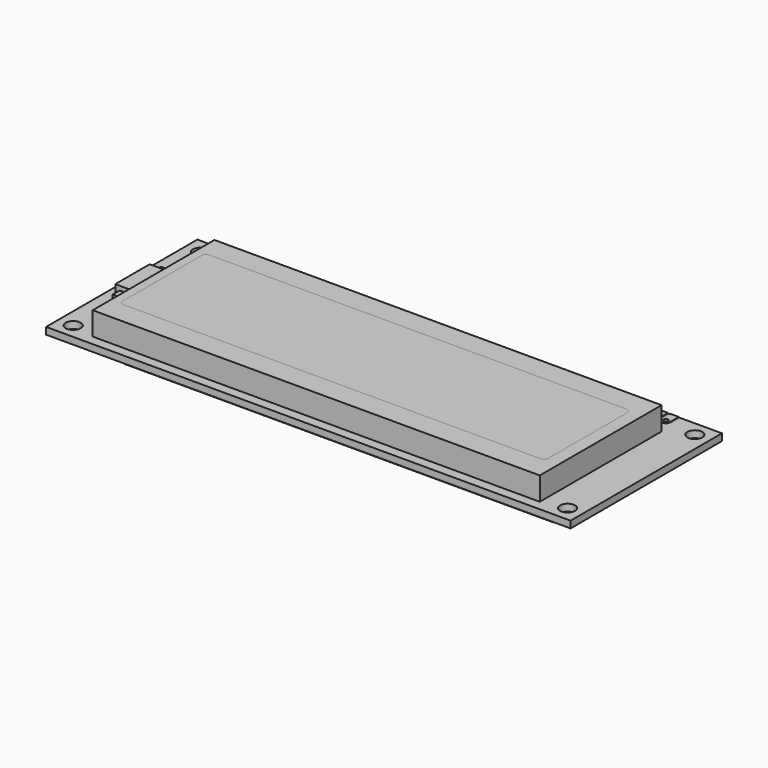
from build123d import *

# Parameters (mm, degrees)
SKETCH_W          = 122
SKETCH_H          = 44
SKETCH_R          = 1.75
SKETCH_R_2        = 0.5
PAD_DEPTH         = 1.6
BOX001_W          = 99
BOX001_H          = 25
BOX001_DEPTH      = 2
FILLET_R          = 1
FILLET001_R       = 1
FILLET002_R       = 1
FILLET003_R       = 1
BOX_W             = 104
BOX_H             = 35.4
BOX_DEPTH         = 5.4
BOX003_W          = 99
BOX003_H          = 25
BOX003_DEPTH      = 2
FILLET004_R       = 1
FILLET005_R       = 1
FILLET006_R       = 1
FILLET007_R       = 1
BOX006_W          = 2
BOX006_H          = 2
BOX006_DEPTH      = 2
BOX005_W          = 2
BOX005_H          = 2
BOX005_DEPTH      = 2
BOX004_W          = 7.1
BOX004_H          = 10
BOX004_DEPTH      = 3
CYLINDER002_R     = 0.5
CYLINDER002_DEPTH = 0.1
BOX007_W          = 2
BOX007_H          = 2.5
BOX007_DEPTH      = 0.1
CYLINDER001_R     = 0.5
CYLINDER001_DEPTH = 0.1
CYLINDER_R        = 1
CYLINDER_DEPTH    = 0.1
CYLINDER005_R     = 0.5
CYLINDER005_DEPTH = 0.1
BOX008_W          = 2
BOX008_H          = 2.5
BOX008_DEPTH      = 0.1
CYLINDER004_R     = 0.5
CYLINDER004_DEPTH = 0.1
CYLINDER003_R     = 1
CYLINDER003_DEPTH = 0.1
CYLINDER008_R     = 0.5
CYLINDER008_DEPTH = 0.1
BOX009_W          = 2
BOX009_H          = 2.5
BOX009_DEPTH      = 0.1
CYLINDER007_R     = 0.5
CYLINDER007_DEPTH = 0.1
CYLINDER006_R     = 1
CYLINDER006_DEPTH = 0.1
CYLINDER011_R     = 0.5
CYLINDER011_DEPTH = 0.1
BOX010_W          = 2
BOX010_H          = 2.5
BOX010_DEPTH      = 0.1
CYLINDER010_R     = 0.5
CYLINDER010_DEPTH = 0.1
CYLINDER009_R     = 1
CYLINDER009_DEPTH = 0.1
CYLINDER014_R     = 0.5
CYLINDER014_DEPTH = 0.1
BOX011_W          = 2
BOX011_H          = 2.5
BOX011_DEPTH      = 0.1
CYLINDER013_R     = 0.5
CYLINDER013_DEPTH = 0.1
CYLINDER012_R     = 1
CYLINDER012_DEPTH = 0.1
CYLINDER017_R     = 0.5
CYLINDER017_DEPTH = 0.1
BOX012_W          = 2
BOX012_H          = 2.5
BOX012_DEPTH      = 0.1
CYLINDER016_R     = 0.5
CYLINDER016_DEPTH = 0.1
CYLINDER015_R     = 1
CYLINDER015_DEPTH = 0.1
CYLINDER020_R     = 0.5
CYLINDER020_DEPTH = 0.1
BOX013_W          = 2
BOX013_H          = 2.5
BOX013_DEPTH      = 0.1
CYLINDER019_R     = 0.5
CYLINDER019_DEPTH = 0.1
CYLINDER018_R     = 1
CYLINDER018_DEPTH = 0.1
CYLINDER023_R     = 0.5
CYLINDER023_DEPTH = 0.1
BOX014_W          = 2
BOX014_H          = 2.5
BOX014_DEPTH      = 0.1
CYLINDER022_R     = 0.5
CYLINDER022_DEPTH = 0.1
CYLINDER021_R     = 1
CYLINDER021_DEPTH = 0.1
CYLINDER026_R     = 0.5
CYLINDER026_DEPTH = 0.1
BOX015_W          = 2
BOX015_H          = 2.5
BOX015_DEPTH      = 0.1
CYLINDER025_R     = 0.5
CYLINDER025_DEPTH = 0.1
CYLINDER024_R     = 1
CYLINDER024_DEPTH = 0.1
CYLINDER029_R     = 0.5
CYLINDER029_DEPTH = 0.1
BOX016_W          = 2
BOX016_H          = 2.5
BOX016_DEPTH      = 0.1
CYLINDER028_R     = 0.5
CYLINDER028_DEPTH = 0.1
CYLINDER027_R     = 1
CYLINDER027_DEPTH = 0.1
CYLINDER032_R     = 0.5
CYLINDER032_DEPTH = 0.1
BOX017_W          = 2
BOX017_H          = 2.5
BOX017_DEPTH      = 0.1
CYLINDER031_R     = 0.5
CYLINDER031_DEPTH = 0.1
CYLINDER030_R     = 1
CYLINDER030_DEPTH = 0.1
CYLINDER035_R     = 0.5
CYLINDER035_DEPTH = 0.1
BOX018_W          = 2
BOX018_H          = 2.5
BOX018_DEPTH      = 0.1
CYLINDER034_R     = 0.5
CYLINDER034_DEPTH = 0.1
CYLINDER033_R     = 1
CYLINDER033_DEPTH = 0.1
CYLINDER038_R     = 0.5
CYLINDER038_DEPTH = 0.1
BOX019_W          = 2
BOX019_H          = 2.5
BOX019_DEPTH      = 0.1
CYLINDER037_R     = 0.5
CYLINDER037_DEPTH = 0.1
CYLINDER036_R     = 1
CYLINDER036_DEPTH = 0.1
CYLINDER041_R     = 0.5
CYLINDER041_DEPTH = 0.1
BOX020_W          = 2
BOX020_H          = 2.5
BOX020_DEPTH      = 0.1
CYLINDER040_R     = 0.5
CYLINDER040_DEPTH = 0.1
CYLINDER039_R     = 1
CYLINDER039_DEPTH = 0.1
CYLINDER044_R     = 0.5
CYLINDER044_DEPTH = 0.1
BOX021_W          = 2
BOX021_H          = 2.5
BOX021_DEPTH      = 0.1
CYLINDER043_R     = 0.5
CYLINDER043_DEPTH = 0.1
CYLINDER042_R     = 1
CYLINDER042_DEPTH = 0.1
CYLINDER047_R     = 0.5
CYLINDER047_DEPTH = 0.1
BOX022_W          = 2
BOX022_H          = 2.5
BOX022_DEPTH      = 0.1
CYLINDER046_R     = 0.5
CYLINDER046_DEPTH = 0.1
CYLINDER045_R     = 1
CYLINDER045_DEPTH = 0.1
BOX023_W          = 100
BOX023_H          = 1
BOX023_DEPTH      = 4.4
BOX024_W          = 100
BOX024_H          = 1
BOX024_DEPTH      = 4.4


with BuildPart() as body:
    # Sketch → Pad (new body)
    with BuildSketch(Plane.XY):
        with Locations((-11.9, -19.5)):
            Rectangle(SKETCH_W, SKETCH_H)
        with Locations((-69.4, -1)):
            Circle(SKETCH_R, mode=Mode.SUBTRACT)
        with Locations((-69.4, -38)):
            Circle(SKETCH_R, mode=Mode.SUBTRACT)
        with Locations((45.6, -38)):
            Circle(SKETCH_R, mode=Mode.SUBTRACT)
        with Locations((2.54, 0)):
            Circle(SKETCH_R_2, mode=Mode.SUBTRACT)
        with Locations((5.08, 0)):
            Circle(SKETCH_R_2, mode=Mode.SUBTRACT)
        with Locations((7.62, 0)):
            Circle(SKETCH_R_2, mode=Mode.SUBTRACT)
        with Locations((10.16, 0)):
            Circle(SKETCH_R_2, mode=Mode.SUBTRACT)
        with Locations((12.7, 0)):
            Circle(SKETCH_R_2, mode=Mode.SUBTRACT)
        with Locations((15.24, 0)):
            Circle(SKETCH_R_2, mode=Mode.SUBTRACT)
        with Locations((17.78, 0)):
            Circle(SKETCH_R_2, mode=Mode.SUBTRACT)
        Circle(SKETCH_R_2, mode=Mode.SUBTRACT)
        with Locations((45.6, -1)):
            Circle(SKETCH_R, mode=Mode.SUBTRACT)
        with Locations((20.32, 0)):
            Circle(SKETCH_R_2, mode=Mode.SUBTRACT)
        with Locations((22.86, 0)):
            Circle(SKETCH_R_2, mode=Mode.SUBTRACT)
        with Locations((25.4, 0)):
            Circle(SKETCH_R_2, mode=Mode.SUBTRACT)
        with Locations((27.94, 0)):
            Circle(SKETCH_R_2, mode=Mode.SUBTRACT)
        with Locations((30.48, 0)):
            Circle(SKETCH_R_2, mode=Mode.SUBTRACT)
        with Locations((33.02, 0)):
            Circle(SKETCH_R_2, mode=Mode.SUBTRACT)
        with Locations((35.56, 0)):
            Circle(SKETCH_R_2, mode=Mode.SUBTRACT)
        with Locations((38.1, 0)):
            Circle(SKETCH_R_2, mode=Mode.SUBTRACT)
    extrude(amount=PAD_DEPTH)


with BuildPart() as body_1:
    # Body placement: moved
    add(body.part.moved(Location((0, 0, 4.4))))


with BuildPart() as fillet003:
    # Box001 → Box001 (new body)
    with BuildSketch(Plane(origin=(-61.9, -34, 5), x_dir=(1, 0, 0), z_dir=(0, 0, 1))):
        with Locations((49.5, 12.5)):
            Rectangle(BOX001_W, BOX001_H)
    extrude(amount=BOX001_DEPTH)

    # Fillet
    fillet_edges = [fillet003.edges().sort_by_distance(p)[0] for p in [
        (-61.9, -9, 6),
    ]]
    fillet(fillet_edges, radius=FILLET_R)

    # Fillet001
    fillet001_edges = [fillet003.edges().sort_by_distance(p)[0] for p in [
        (-61.9, -34, 6),
    ]]
    fillet(fillet001_edges, radius=FILLET001_R)

    # Fillet002
    fillet002_edges = [fillet003.edges().sort_by_distance(p)[0] for p in [
        (37.1, -34, 6),
    ]]
    fillet(fillet002_edges, radius=FILLET002_R)

    # Fillet003
    fillet003_edges = [fillet003.edges().sort_by_distance(p)[0] for p in [
        (37.1, -9, 6),
    ]]
    fillet(fillet003_edges, radius=FILLET003_R)


with BuildPart() as cut:
    # Box → Box (new body)
    with BuildSketch(Plane(origin=(-63.9, -39.2, 1.6), x_dir=(1, 0, 0), z_dir=(0, 0, 1))):
        with Locations((52, 17.7)):
            Rectangle(BOX_W, BOX_H)
    extrude(amount=BOX_DEPTH)

    # Cut: cut Fillet003
    add(fillet003.part, mode=Mode.SUBTRACT)


with BuildPart() as cut_1:
    # Cut placement: moved
    add(cut.part.moved(Location((0, 0, 4.4))))


with BuildPart() as obj1:
    # Box003 → Box003 (new body)
    with BuildSketch(Plane(origin=(-61.9, -34, 5), x_dir=(1, 0, 0), z_dir=(0, 0, 1))):
        with Locations((49.5, 12.5)):
            Rectangle(BOX003_W, BOX003_H)
    extrude(amount=BOX003_DEPTH)

    # Fillet004
    fillet004_edges = [obj1.edges().sort_by_distance(p)[0] for p in [
        (-61.9, -9, 6),
    ]]
    fillet(fillet004_edges, radius=FILLET004_R)

    # Fillet005
    fillet005_edges = [obj1.edges().sort_by_distance(p)[0] for p in [
        (-61.9, -34, 6),
    ]]
    fillet(fillet005_edges, radius=FILLET005_R)

    # Fillet006
    fillet006_edges = [obj1.edges().sort_by_distance(p)[0] for p in [
        (37.1, -34, 6),
    ]]
    fillet(fillet006_edges, radius=FILLET006_R)

    # Fillet007
    fillet007_edges = [obj1.edges().sort_by_distance(p)[0] for p in [
        (37.1, -9, 6),
    ]]
    fillet(fillet007_edges, radius=FILLET007_R)


with BuildPart() as obj1_1:
    # Fillet007 placement: moved
    add(obj1.part.moved(Location((0, 0, 4.4))))


with BuildPart() as box006:
    # Box006 → Box006 (new body)
    with BuildSketch(Plane(origin=(-69, -27, 1.6), x_dir=(1, 0, 0), z_dir=(0, 0, 1))):
        with Locations((1, 1)):
            Rectangle(BOX006_W, BOX006_H)
    extrude(amount=BOX006_DEPTH)


with BuildPart() as box005:
    # Box005 → Box005 (new body)
    with BuildSketch(Plane(origin=(-69, -15, 1.6), x_dir=(1, 0, 0), z_dir=(0, 0, 1))):
        with Locations((1, 1)):
            Rectangle(BOX005_W, BOX005_H)
    extrude(amount=BOX005_DEPTH)


with BuildPart() as sideitem:
    # Box004 → Box004 (new body)
    with BuildSketch(Plane(origin=(-70, -25, 1.6), x_dir=(1, 0, 0), z_dir=(0, 0, 1))):
        with Locations((3.55, 5)):
            Rectangle(BOX004_W, BOX004_H)
    extrude(amount=BOX004_DEPTH)

    # Fusion: union Box006, Box005
    add(box006.part)
    add(box005.part)


with BuildPart() as sideitem_1:
    # Fusion placement: moved
    add(sideitem.part.moved(Location((0, 0, 4.4))))


with BuildPart() as cylinder002:
    # Cylinder002 → Cylinder002 (new body)
    with BuildSketch(Plane.XY.offset(1.6)):
        Circle(CYLINDER002_R)
    extrude(amount=CYLINDER002_DEPTH)


with BuildPart() as cut002:
    # Box007 → Box007 (new body)
    with BuildSketch(Plane(origin=(-1, 0, 1.6), x_dir=(1, 0, 0), z_dir=(0, 0, 1))):
        with Locations((1, 1.25)):
            Rectangle(BOX007_W, BOX007_H)
    extrude(amount=BOX007_DEPTH)

    # Cut002: cut Cylinder002
    add(cylinder002.part, mode=Mode.SUBTRACT)


with BuildPart() as cylinder001:
    # Cylinder001 → Cylinder001 (new body)
    with BuildSketch(Plane.XY.offset(1.6)):
        Circle(CYLINDER001_R)
    extrude(amount=CYLINDER001_DEPTH)


with BuildPart() as fusion001:
    # Cylinder → Cylinder (new body)
    with BuildSketch(Plane.XY.offset(1.6)):
        Circle(CYLINDER_R)
    extrude(amount=CYLINDER_DEPTH)

    # Cut001: cut Cylinder001
    add(cylinder001.part, mode=Mode.SUBTRACT)

    # Fusion001: union Cut002
    add(cut002.part)


with BuildPart() as fusion001_1:
    # Fusion001 placement: moved
    add(fusion001.part.moved(Location((0, 0, 4.4))))


with BuildPart() as cylinder005:
    # Cylinder005 → Cylinder005 (new body)
    with BuildSketch(Plane.XY.offset(1.6)):
        Circle(CYLINDER005_R)
    extrude(amount=CYLINDER005_DEPTH)


with BuildPart() as cut004:
    # Box008 → Box008 (new body)
    with BuildSketch(Plane(origin=(-1, 0, 1.6), x_dir=(1, 0, 0), z_dir=(0, 0, 1))):
        with Locations((1, 1.25)):
            Rectangle(BOX008_W, BOX008_H)
    extrude(amount=BOX008_DEPTH)

    # Cut004: cut Cylinder005
    add(cylinder005.part, mode=Mode.SUBTRACT)


with BuildPart() as cylinder004:
    # Cylinder004 → Cylinder004 (new body)
    with BuildSketch(Plane.XY.offset(1.6)):
        Circle(CYLINDER004_R)
    extrude(amount=CYLINDER004_DEPTH)


with BuildPart() as fusion002:
    # Cylinder003 → Cylinder003 (new body)
    with BuildSketch(Plane.XY.offset(1.6)):
        Circle(CYLINDER003_R)
    extrude(amount=CYLINDER003_DEPTH)

    # Cut003: cut Cylinder004
    add(cylinder004.part, mode=Mode.SUBTRACT)

    # Fusion002: union Cut004
    add(cut004.part)


with BuildPart() as fusion002_1:
    # Fusion002 placement: moved
    add(fusion002.part.moved(Location((2.54, 0, 4.4))))


with BuildPart() as cylinder008:
    # Cylinder008 → Cylinder008 (new body)
    with BuildSketch(Plane.XY.offset(1.6)):
        Circle(CYLINDER008_R)
    extrude(amount=CYLINDER008_DEPTH)


with BuildPart() as cut006:
    # Box009 → Box009 (new body)
    with BuildSketch(Plane(origin=(-1, 0, 1.6), x_dir=(1, 0, 0), z_dir=(0, 0, 1))):
        with Locations((1, 1.25)):
            Rectangle(BOX009_W, BOX009_H)
    extrude(amount=BOX009_DEPTH)

    # Cut006: cut Cylinder008
    add(cylinder008.part, mode=Mode.SUBTRACT)


with BuildPart() as cylinder007:
    # Cylinder007 → Cylinder007 (new body)
    with BuildSketch(Plane.XY.offset(1.6)):
        Circle(CYLINDER007_R)
    extrude(amount=CYLINDER007_DEPTH)


with BuildPart() as fusion003:
    # Cylinder006 → Cylinder006 (new body)
    with BuildSketch(Plane.XY.offset(1.6)):
        Circle(CYLINDER006_R)
    extrude(amount=CYLINDER006_DEPTH)

    # Cut005: cut Cylinder007
    add(cylinder007.part, mode=Mode.SUBTRACT)

    # Fusion003: union Cut006
    add(cut006.part)


with BuildPart() as fusion003_1:
    # Fusion003 placement: moved
    add(fusion003.part.moved(Location((5.08, 0, 4.4))))


with BuildPart() as cylinder011:
    # Cylinder011 → Cylinder011 (new body)
    with BuildSketch(Plane.XY.offset(1.6)):
        Circle(CYLINDER011_R)
    extrude(amount=CYLINDER011_DEPTH)


with BuildPart() as cut008:
    # Box010 → Box010 (new body)
    with BuildSketch(Plane(origin=(-1, 0, 1.6), x_dir=(1, 0, 0), z_dir=(0, 0, 1))):
        with Locations((1, 1.25)):
            Rectangle(BOX010_W, BOX010_H)
    extrude(amount=BOX010_DEPTH)

    # Cut008: cut Cylinder011
    add(cylinder011.part, mode=Mode.SUBTRACT)


with BuildPart() as cylinder010:
    # Cylinder010 → Cylinder010 (new body)
    with BuildSketch(Plane.XY.offset(1.6)):
        Circle(CYLINDER010_R)
    extrude(amount=CYLINDER010_DEPTH)


with BuildPart() as fusion004:
    # Cylinder009 → Cylinder009 (new body)
    with BuildSketch(Plane.XY.offset(1.6)):
        Circle(CYLINDER009_R)
    extrude(amount=CYLINDER009_DEPTH)

    # Cut007: cut Cylinder010
    add(cylinder010.part, mode=Mode.SUBTRACT)

    # Fusion004: union Cut008
    add(cut008.part)


with BuildPart() as fusion004_1:
    # Fusion004 placement: moved
    add(fusion004.part.moved(Location((7.62, 0, 4.4))))


with BuildPart() as cylinder014:
    # Cylinder014 → Cylinder014 (new body)
    with BuildSketch(Plane.XY.offset(1.6)):
        Circle(CYLINDER014_R)
    extrude(amount=CYLINDER014_DEPTH)


with BuildPart() as cut010:
    # Box011 → Box011 (new body)
    with BuildSketch(Plane(origin=(-1, 0, 1.6), x_dir=(1, 0, 0), z_dir=(0, 0, 1))):
        with Locations((1, 1.25)):
            Rectangle(BOX011_W, BOX011_H)
    extrude(amount=BOX011_DEPTH)

    # Cut010: cut Cylinder014
    add(cylinder014.part, mode=Mode.SUBTRACT)


with BuildPart() as cylinder013:
    # Cylinder013 → Cylinder013 (new body)
    with BuildSketch(Plane.XY.offset(1.6)):
        Circle(CYLINDER013_R)
    extrude(amount=CYLINDER013_DEPTH)


with BuildPart() as fusion005:
    # Cylinder012 → Cylinder012 (new body)
    with BuildSketch(Plane.XY.offset(1.6)):
        Circle(CYLINDER012_R)
    extrude(amount=CYLINDER012_DEPTH)

    # Cut009: cut Cylinder013
    add(cylinder013.part, mode=Mode.SUBTRACT)

    # Fusion005: union Cut010
    add(cut010.part)


with BuildPart() as fusion005_1:
    # Fusion005 placement: moved
    add(fusion005.part.moved(Location((10.16, 0, 4.4))))


with BuildPart() as cylinder017:
    # Cylinder017 → Cylinder017 (new body)
    with BuildSketch(Plane.XY.offset(1.6)):
        Circle(CYLINDER017_R)
    extrude(amount=CYLINDER017_DEPTH)


with BuildPart() as cut012:
    # Box012 → Box012 (new body)
    with BuildSketch(Plane(origin=(-1, 0, 1.6), x_dir=(1, 0, 0), z_dir=(0, 0, 1))):
        with Locations((1, 1.25)):
            Rectangle(BOX012_W, BOX012_H)
    extrude(amount=BOX012_DEPTH)

    # Cut012: cut Cylinder017
    add(cylinder017.part, mode=Mode.SUBTRACT)


with BuildPart() as cylinder016:
    # Cylinder016 → Cylinder016 (new body)
    with BuildSketch(Plane.XY.offset(1.6)):
        Circle(CYLINDER016_R)
    extrude(amount=CYLINDER016_DEPTH)


with BuildPart() as fusion006:
    # Cylinder015 → Cylinder015 (new body)
    with BuildSketch(Plane.XY.offset(1.6)):
        Circle(CYLINDER015_R)
    extrude(amount=CYLINDER015_DEPTH)

    # Cut011: cut Cylinder016
    add(cylinder016.part, mode=Mode.SUBTRACT)

    # Fusion006: union Cut012
    add(cut012.part)


with BuildPart() as fusion006_1:
    # Fusion006 placement: moved
    add(fusion006.part.moved(Location((12.7, 0, 4.4))))


with BuildPart() as cylinder020:
    # Cylinder020 → Cylinder020 (new body)
    with BuildSketch(Plane.XY.offset(1.6)):
        Circle(CYLINDER020_R)
    extrude(amount=CYLINDER020_DEPTH)


with BuildPart() as cut014:
    # Box013 → Box013 (new body)
    with BuildSketch(Plane(origin=(-1, 0, 1.6), x_dir=(1, 0, 0), z_dir=(0, 0, 1))):
        with Locations((1, 1.25)):
            Rectangle(BOX013_W, BOX013_H)
    extrude(amount=BOX013_DEPTH)

    # Cut014: cut Cylinder020
    add(cylinder020.part, mode=Mode.SUBTRACT)


with BuildPart() as cylinder019:
    # Cylinder019 → Cylinder019 (new body)
    with BuildSketch(Plane.XY.offset(1.6)):
        Circle(CYLINDER019_R)
    extrude(amount=CYLINDER019_DEPTH)


with BuildPart() as fusion007:
    # Cylinder018 → Cylinder018 (new body)
    with BuildSketch(Plane.XY.offset(1.6)):
        Circle(CYLINDER018_R)
    extrude(amount=CYLINDER018_DEPTH)

    # Cut013: cut Cylinder019
    add(cylinder019.part, mode=Mode.SUBTRACT)

    # Fusion007: union Cut014
    add(cut014.part)


with BuildPart() as fusion007_1:
    # Fusion007 placement: moved
    add(fusion007.part.moved(Location((15.24, 0, 4.4))))


with BuildPart() as cylinder023:
    # Cylinder023 → Cylinder023 (new body)
    with BuildSketch(Plane.XY.offset(1.6)):
        Circle(CYLINDER023_R)
    extrude(amount=CYLINDER023_DEPTH)


with BuildPart() as cut016:
    # Box014 → Box014 (new body)
    with BuildSketch(Plane(origin=(-1, 0, 1.6), x_dir=(1, 0, 0), z_dir=(0, 0, 1))):
        with Locations((1, 1.25)):
            Rectangle(BOX014_W, BOX014_H)
    extrude(amount=BOX014_DEPTH)

    # Cut016: cut Cylinder023
    add(cylinder023.part, mode=Mode.SUBTRACT)


with BuildPart() as cylinder022:
    # Cylinder022 → Cylinder022 (new body)
    with BuildSketch(Plane.XY.offset(1.6)):
        Circle(CYLINDER022_R)
    extrude(amount=CYLINDER022_DEPTH)


with BuildPart() as fusion008:
    # Cylinder021 → Cylinder021 (new body)
    with BuildSketch(Plane.XY.offset(1.6)):
        Circle(CYLINDER021_R)
    extrude(amount=CYLINDER021_DEPTH)

    # Cut015: cut Cylinder022
    add(cylinder022.part, mode=Mode.SUBTRACT)

    # Fusion008: union Cut016
    add(cut016.part)


with BuildPart() as fusion008_1:
    # Fusion008 placement: moved
    add(fusion008.part.moved(Location((17.78, 0, 4.4))))


with BuildPart() as cylinder026:
    # Cylinder026 → Cylinder026 (new body)
    with BuildSketch(Plane.XY.offset(1.6)):
        Circle(CYLINDER026_R)
    extrude(amount=CYLINDER026_DEPTH)


with BuildPart() as cut018:
    # Box015 → Box015 (new body)
    with BuildSketch(Plane(origin=(-1, 0, 1.6), x_dir=(1, 0, 0), z_dir=(0, 0, 1))):
        with Locations((1, 1.25)):
            Rectangle(BOX015_W, BOX015_H)
    extrude(amount=BOX015_DEPTH)

    # Cut018: cut Cylinder026
    add(cylinder026.part, mode=Mode.SUBTRACT)


with BuildPart() as cylinder025:
    # Cylinder025 → Cylinder025 (new body)
    with BuildSketch(Plane.XY.offset(1.6)):
        Circle(CYLINDER025_R)
    extrude(amount=CYLINDER025_DEPTH)


with BuildPart() as fusion009:
    # Cylinder024 → Cylinder024 (new body)
    with BuildSketch(Plane.XY.offset(1.6)):
        Circle(CYLINDER024_R)
    extrude(amount=CYLINDER024_DEPTH)

    # Cut017: cut Cylinder025
    add(cylinder025.part, mode=Mode.SUBTRACT)

    # Fusion009: union Cut018
    add(cut018.part)


with BuildPart() as fusion009_1:
    # Fusion009 placement: moved
    add(fusion009.part.moved(Location((20.32, 0, 4.4))))


with BuildPart() as cylinder029:
    # Cylinder029 → Cylinder029 (new body)
    with BuildSketch(Plane.XY.offset(1.6)):
        Circle(CYLINDER029_R)
    extrude(amount=CYLINDER029_DEPTH)


with BuildPart() as cut020:
    # Box016 → Box016 (new body)
    with BuildSketch(Plane(origin=(-1, 0, 1.6), x_dir=(1, 0, 0), z_dir=(0, 0, 1))):
        with Locations((1, 1.25)):
            Rectangle(BOX016_W, BOX016_H)
    extrude(amount=BOX016_DEPTH)

    # Cut020: cut Cylinder029
    add(cylinder029.part, mode=Mode.SUBTRACT)


with BuildPart() as cylinder028:
    # Cylinder028 → Cylinder028 (new body)
    with BuildSketch(Plane.XY.offset(1.6)):
        Circle(CYLINDER028_R)
    extrude(amount=CYLINDER028_DEPTH)


with BuildPart() as fusion010:
    # Cylinder027 → Cylinder027 (new body)
    with BuildSketch(Plane.XY.offset(1.6)):
        Circle(CYLINDER027_R)
    extrude(amount=CYLINDER027_DEPTH)

    # Cut019: cut Cylinder028
    add(cylinder028.part, mode=Mode.SUBTRACT)

    # Fusion010: union Cut020
    add(cut020.part)


with BuildPart() as fusion010_1:
    # Fusion010 placement: moved
    add(fusion010.part.moved(Location((22.86, 0, 4.4))))


with BuildPart() as cylinder032:
    # Cylinder032 → Cylinder032 (new body)
    with BuildSketch(Plane.XY.offset(1.6)):
        Circle(CYLINDER032_R)
    extrude(amount=CYLINDER032_DEPTH)


with BuildPart() as cut022:
    # Box017 → Box017 (new body)
    with BuildSketch(Plane(origin=(-1, 0, 1.6), x_dir=(1, 0, 0), z_dir=(0, 0, 1))):
        with Locations((1, 1.25)):
            Rectangle(BOX017_W, BOX017_H)
    extrude(amount=BOX017_DEPTH)

    # Cut022: cut Cylinder032
    add(cylinder032.part, mode=Mode.SUBTRACT)


with BuildPart() as cylinder031:
    # Cylinder031 → Cylinder031 (new body)
    with BuildSketch(Plane.XY.offset(1.6)):
        Circle(CYLINDER031_R)
    extrude(amount=CYLINDER031_DEPTH)


with BuildPart() as fusion011:
    # Cylinder030 → Cylinder030 (new body)
    with BuildSketch(Plane.XY.offset(1.6)):
        Circle(CYLINDER030_R)
    extrude(amount=CYLINDER030_DEPTH)

    # Cut021: cut Cylinder031
    add(cylinder031.part, mode=Mode.SUBTRACT)

    # Fusion011: union Cut022
    add(cut022.part)


with BuildPart() as fusion011_1:
    # Fusion011 placement: moved
    add(fusion011.part.moved(Location((25.4, 0, 4.4))))


with BuildPart() as cylinder035:
    # Cylinder035 → Cylinder035 (new body)
    with BuildSketch(Plane.XY.offset(1.6)):
        Circle(CYLINDER035_R)
    extrude(amount=CYLINDER035_DEPTH)


with BuildPart() as cut024:
    # Box018 → Box018 (new body)
    with BuildSketch(Plane(origin=(-1, 0, 1.6), x_dir=(1, 0, 0), z_dir=(0, 0, 1))):
        with Locations((1, 1.25)):
            Rectangle(BOX018_W, BOX018_H)
    extrude(amount=BOX018_DEPTH)

    # Cut024: cut Cylinder035
    add(cylinder035.part, mode=Mode.SUBTRACT)


with BuildPart() as cylinder034:
    # Cylinder034 → Cylinder034 (new body)
    with BuildSketch(Plane.XY.offset(1.6)):
        Circle(CYLINDER034_R)
    extrude(amount=CYLINDER034_DEPTH)


with BuildPart() as fusion012:
    # Cylinder033 → Cylinder033 (new body)
    with BuildSketch(Plane.XY.offset(1.6)):
        Circle(CYLINDER033_R)
    extrude(amount=CYLINDER033_DEPTH)

    # Cut023: cut Cylinder034
    add(cylinder034.part, mode=Mode.SUBTRACT)

    # Fusion012: union Cut024
    add(cut024.part)


with BuildPart() as fusion012_1:
    # Fusion012 placement: moved
    add(fusion012.part.moved(Location((27.94, 0, 4.4))))


with BuildPart() as cylinder038:
    # Cylinder038 → Cylinder038 (new body)
    with BuildSketch(Plane.XY.offset(1.6)):
        Circle(CYLINDER038_R)
    extrude(amount=CYLINDER038_DEPTH)


with BuildPart() as cut026:
    # Box019 → Box019 (new body)
    with BuildSketch(Plane(origin=(-1, 0, 1.6), x_dir=(1, 0, 0), z_dir=(0, 0, 1))):
        with Locations((1, 1.25)):
            Rectangle(BOX019_W, BOX019_H)
    extrude(amount=BOX019_DEPTH)

    # Cut026: cut Cylinder038
    add(cylinder038.part, mode=Mode.SUBTRACT)


with BuildPart() as cylinder037:
    # Cylinder037 → Cylinder037 (new body)
    with BuildSketch(Plane.XY.offset(1.6)):
        Circle(CYLINDER037_R)
    extrude(amount=CYLINDER037_DEPTH)


with BuildPart() as fusion013:
    # Cylinder036 → Cylinder036 (new body)
    with BuildSketch(Plane.XY.offset(1.6)):
        Circle(CYLINDER036_R)
    extrude(amount=CYLINDER036_DEPTH)

    # Cut025: cut Cylinder037
    add(cylinder037.part, mode=Mode.SUBTRACT)

    # Fusion013: union Cut026
    add(cut026.part)


with BuildPart() as fusion013_1:
    # Fusion013 placement: moved
    add(fusion013.part.moved(Location((30.48, 0, 4.4))))


with BuildPart() as cylinder041:
    # Cylinder041 → Cylinder041 (new body)
    with BuildSketch(Plane.XY.offset(1.6)):
        Circle(CYLINDER041_R)
    extrude(amount=CYLINDER041_DEPTH)


with BuildPart() as cut028:
    # Box020 → Box020 (new body)
    with BuildSketch(Plane(origin=(-1, 0, 1.6), x_dir=(1, 0, 0), z_dir=(0, 0, 1))):
        with Locations((1, 1.25)):
            Rectangle(BOX020_W, BOX020_H)
    extrude(amount=BOX020_DEPTH)

    # Cut028: cut Cylinder041
    add(cylinder041.part, mode=Mode.SUBTRACT)


with BuildPart() as cylinder040:
    # Cylinder040 → Cylinder040 (new body)
    with BuildSketch(Plane.XY.offset(1.6)):
        Circle(CYLINDER040_R)
    extrude(amount=CYLINDER040_DEPTH)


with BuildPart() as fusion014:
    # Cylinder039 → Cylinder039 (new body)
    with BuildSketch(Plane.XY.offset(1.6)):
        Circle(CYLINDER039_R)
    extrude(amount=CYLINDER039_DEPTH)

    # Cut027: cut Cylinder040
    add(cylinder040.part, mode=Mode.SUBTRACT)

    # Fusion014: union Cut028
    add(cut028.part)


with BuildPart() as fusion014_1:
    # Fusion014 placement: moved
    add(fusion014.part.moved(Location((33.02, 0, 4.4))))


with BuildPart() as cylinder044:
    # Cylinder044 → Cylinder044 (new body)
    with BuildSketch(Plane.XY.offset(1.6)):
        Circle(CYLINDER044_R)
    extrude(amount=CYLINDER044_DEPTH)


with BuildPart() as cut030:
    # Box021 → Box021 (new body)
    with BuildSketch(Plane(origin=(-1, 0, 1.6), x_dir=(1, 0, 0), z_dir=(0, 0, 1))):
        with Locations((1, 1.25)):
            Rectangle(BOX021_W, BOX021_H)
    extrude(amount=BOX021_DEPTH)

    # Cut030: cut Cylinder044
    add(cylinder044.part, mode=Mode.SUBTRACT)


with BuildPart() as cylinder043:
    # Cylinder043 → Cylinder043 (new body)
    with BuildSketch(Plane.XY.offset(1.6)):
        Circle(CYLINDER043_R)
    extrude(amount=CYLINDER043_DEPTH)


with BuildPart() as fusion015:
    # Cylinder042 → Cylinder042 (new body)
    with BuildSketch(Plane.XY.offset(1.6)):
        Circle(CYLINDER042_R)
    extrude(amount=CYLINDER042_DEPTH)

    # Cut029: cut Cylinder043
    add(cylinder043.part, mode=Mode.SUBTRACT)

    # Fusion015: union Cut030
    add(cut030.part)


with BuildPart() as fusion015_1:
    # Fusion015 placement: moved
    add(fusion015.part.moved(Location((35.56, 0, 4.4))))


with BuildPart() as cylinder047:
    # Cylinder047 → Cylinder047 (new body)
    with BuildSketch(Plane.XY.offset(1.6)):
        Circle(CYLINDER047_R)
    extrude(amount=CYLINDER047_DEPTH)


with BuildPart() as cut032:
    # Box022 → Box022 (new body)
    with BuildSketch(Plane(origin=(-1, 0, 1.6), x_dir=(1, 0, 0), z_dir=(0, 0, 1))):
        with Locations((1, 1.25)):
            Rectangle(BOX022_W, BOX022_H)
    extrude(amount=BOX022_DEPTH)

    # Cut032: cut Cylinder047
    add(cylinder047.part, mode=Mode.SUBTRACT)


with BuildPart() as cylinder046:
    # Cylinder046 → Cylinder046 (new body)
    with BuildSketch(Plane.XY.offset(1.6)):
        Circle(CYLINDER046_R)
    extrude(amount=CYLINDER046_DEPTH)


with BuildPart() as fusion016:
    # Cylinder045 → Cylinder045 (new body)
    with BuildSketch(Plane.XY.offset(1.6)):
        Circle(CYLINDER045_R)
    extrude(amount=CYLINDER045_DEPTH)

    # Cut031: cut Cylinder046
    add(cylinder046.part, mode=Mode.SUBTRACT)

    # Fusion016: union Cut032
    add(cut032.part)


with BuildPart() as fusion016_1:
    # Fusion016 placement: moved
    add(fusion016.part.moved(Location((38.1, 0, 4.4))))


with BuildPart() as box023:
    # Box023 → Box023 (new body)
    with BuildSketch(Plane(origin=(-60, -5, 0), x_dir=(1, 0, 0), z_dir=(0, 0, 1))):
        with Locations((50, 0.5)):
            Rectangle(BOX023_W, BOX023_H)
    extrude(amount=BOX023_DEPTH)


with BuildPart() as box024:
    # Box024 → Box024 (new body)
    with BuildSketch(Plane(origin=(-60, -35, 0), x_dir=(1, 0, 0), z_dir=(0, 0, 1))):
        with Locations((50, 0.5)):
            Rectangle(BOX024_W, BOX024_H)
    extrude(amount=BOX024_DEPTH)


solid = Compound([body_1.part, cut_1.part, obj1_1.part, sideitem_1.part, fusion001_1.part, fusion002_1.part, fusion003_1.part, fusion004_1.part, fusion005_1.part, fusion006_1.part, fusion007_1.part, fusion008_1.part, fusion009_1.part, fusion010_1.part, fusion011_1.part, fusion012_1.part, fusion013_1.part, fusion014_1.part, fusion015_1.part, fusion016_1.part, box023.part, box024.part])
